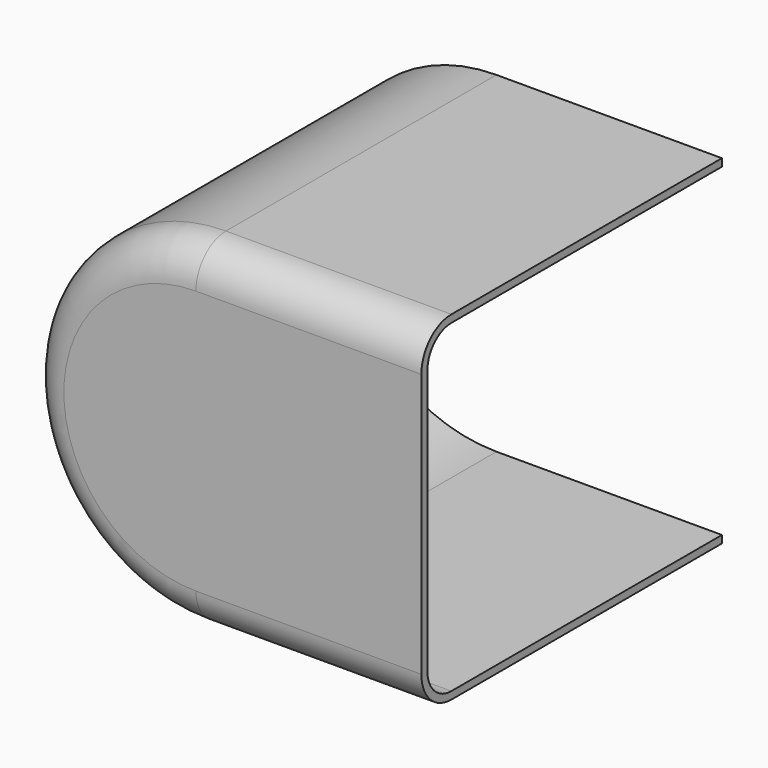
from build123d import *

# Parameters (mm, degrees)
F0_W     = 76.2
F0_H     = 114.652204
F2_DEPTH = 127
F3_R     = 12.7
F1_T     = -2.54


with BuildPart() as f2:
    # F0 (on Front) → F2 (new body)
    with BuildSketch(Plane.XZ):
        with BuildLine():
            Line((-38.1, -57.326102), (-38.1, 57.326102))
            ThreePointArc((-38.1, 57.326102), (-95.426102, 0), (-38.1, -57.326102))
        make_face()
        Rectangle(F0_W, F0_H)
    extrude(amount=F2_DEPTH)

    # F3
    f3_edges = [f2.edges().sort_by_distance(p)[0] for p in [
        (-95.426102, -127, 0),
    ]]
    fillet(f3_edges, radius=F3_R)

    # F1
    f1_openings = [f2.faces().sort_by_distance(p)[0] for p in [
        (38.1, -63.210212, 0),
        (-23.187149, 0, 0),
    ]]
    offset(amount=F1_T, openings=f1_openings)


solid = f2.part
